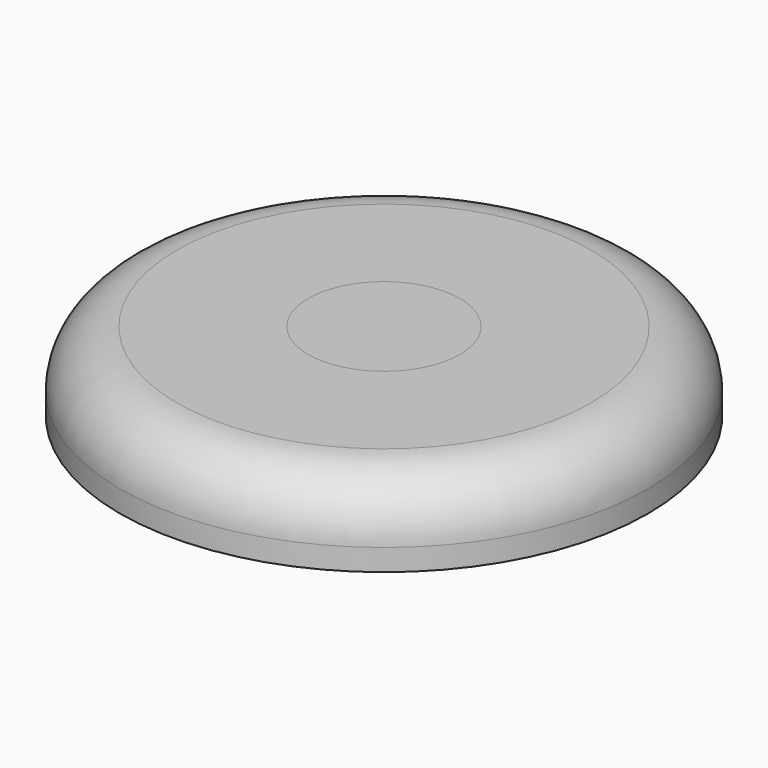
from build123d import *

# Parameters (mm, degrees)
F0_R     = 3.125
F0_R_2   = 1.5
F1_DEPTH = 2.375
F2_R     = 13.404584
F2_R_2   = 3.125
F2_R_3   = 1.5
F3_DEPTH = 4
F4_R     = 2.897056
F5_R     = 3.85
F5_R_2   = 1.5
F6_DEPTH = 1
F7_DEPTH = 4
F8_DEPTH = 2.37
F9_DEPTH = 3.275


with BuildPart() as f1:
    # F0 (on Top) → F1 (new body)
    with BuildSketch(Plane.XY):
        Circle(F0_R)
        Circle(F0_R_2, mode=Mode.SUBTRACT)
    extrude(amount=F1_DEPTH)


with BuildPart() as f3:
    # F2 (on face) → F3 (new body)
    with BuildSketch(Plane.XY.offset(2.375)):
        Circle(F2_R)
        Circle(F2_R_2, mode=Mode.SUBTRACT)
        Circle(F2_R_2)
        Circle(F2_R_3, mode=Mode.SUBTRACT)
    extrude(amount=F3_DEPTH)

    # F4
    f4_edges = [f3.edges().sort_by_distance(p)[0] for p in [
        (-13.404584, 0, 6.375),
    ]]
    fillet(f4_edges, radius=F4_R)


with BuildPart() as f6:
    # F5 (on face) → F6 (new body)
    with BuildSketch(Plane(origin=(0, 0, 2.375), x_dir=(1, 0, 0), z_dir=(0, 0, -1))):
        Circle(F5_R)
        Circle(F5_R_2, mode=Mode.SUBTRACT)
    extrude(amount=F6_DEPTH)


with BuildPart() as f7:
    # F5 (on face) → F7 (new body)
    with BuildSketch(Plane(origin=(0, 0, 2.375), x_dir=(1, 0, 0), z_dir=(0, 0, -1))):
        Circle(F5_R)
    extrude(amount=-F7_DEPTH)


with BuildPart() as f8:
    # F2 (on face) → F8 (new body)
    with BuildSketch(Plane.XY.offset(2.375)):
        Circle(F2_R_3)
    extrude(amount=-F8_DEPTH)


with BuildPart() as f9:
    # F0 (on Top) → F9 (new body)
    with BuildSketch(Plane.XY):
        Circle(F0_R_2)
    extrude(amount=-F9_DEPTH)


solid = Compound([f1.part, f3.part, f6.part, f7.part, f8.part, f9.part])
